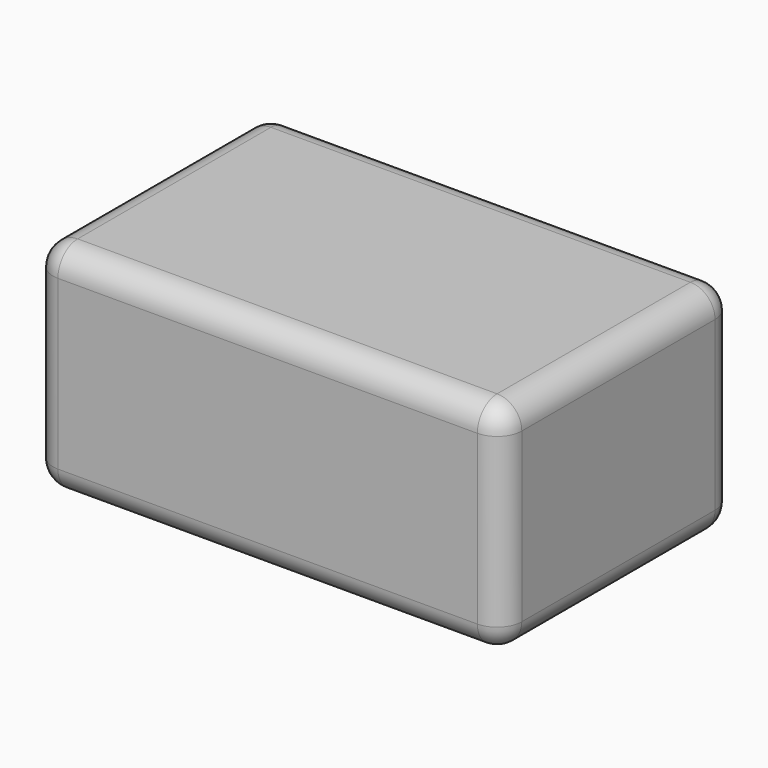
from build123d import *

# Parameters (mm, degrees)
F0_W     = 96.449501
F0_H     = 59.853412
F1_DEPTH = 44.704
F2_R     = 5.08


with BuildPart() as f1:
    # F0 (on Top) → F1 (new body)
    with BuildSketch(Plane.XY):
        with Locations((12.741569, 8.323435)):
            Rectangle(F0_W, F0_H)
    extrude(amount=-F1_DEPTH)

    # F2
    f2_edges = [f1.edges().sort_by_distance(p)[0] for p in [
        (60.96632, -21.603271, -22.352),
        (60.96632, 38.250141, -22.352),
        (60.96632, 8.323435, 0),
        (60.96632, 8.323435, -44.704),
        (-35.483181, 38.250141, -22.352),
        (12.741569, 38.250141, 0),
        (12.741569, 38.250141, -44.704),
        (-35.483181, 8.323435, -44.704),
        (12.741569, -21.603271, -44.704),
        (-35.483181, -21.603271, -22.352),
        (-35.483181, 8.323435, 0),
        (12.741569, -21.603271, 0),
    ]]
    fillet(f2_edges, radius=F2_R)


solid = f1.part
